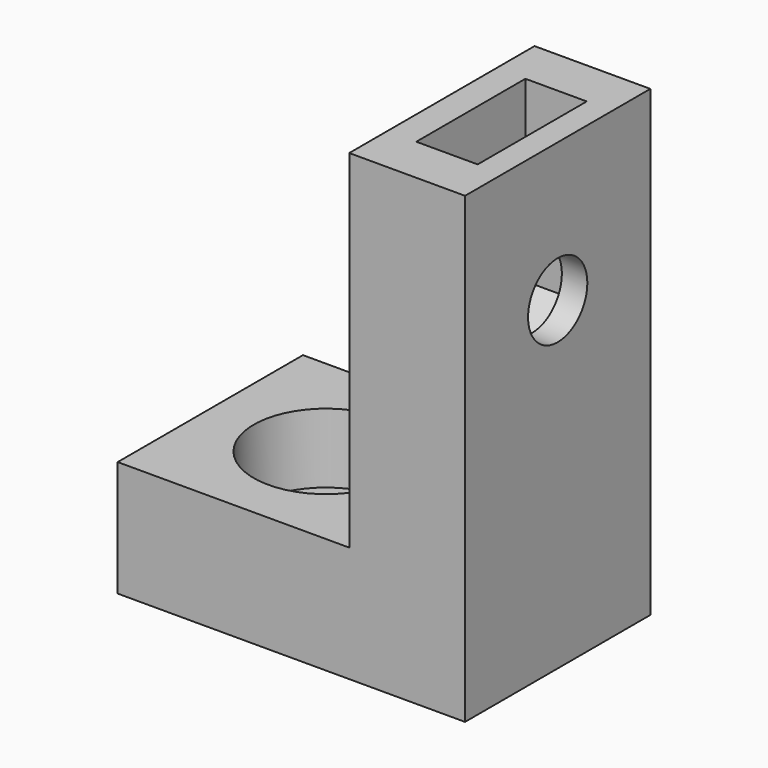
from build123d import *

# Parameters (mm, degrees)
PAD_DEPTH       = 10
SKETCH001_R     = 1.6
POCKET_DEPTH    = 20.001
SKETCH002_R     = 1.6
POCKET001_DEPTH = 15.001
POCKET002_DEPTH = 2.65
SKETCH004_R     = 3.125
POCKET003_DEPTH = 3


with BuildPart() as part:
    # Sketch → Pad (new body)
    with BuildSketch(Plane.XZ):
        Polygon((15, 20), (10, 20), (10, 5), (0, 5), (0, 0), (15, 0), (15, 14), align=None)
    extrude(amount=PAD_DEPTH)

    # Sketch001 → Pocket (cut, through all)
    with BuildSketch(Plane.XY):
        with Locations((5, -5)):
            Circle(SKETCH001_R)
    extrude(amount=POCKET_DEPTH, mode=Mode.SUBTRACT)

    # Sketch002 → Pocket001 (cut, through all)
    with BuildSketch(Plane.YZ):
        with Locations((-5, 14)):
            Circle(SKETCH002_R)
    extrude(amount=POCKET001_DEPTH, mode=Mode.SUBTRACT)

    # Sketch003 → Pocket002 (cut)
    with BuildSketch(Plane.YZ.offset(11.25)):
        Polygon((-2.055514, 12.3), (-2.055514, 15.7), (-2.055514, 20.7), (-7.944486, 20.7), (-7.944486, 15.7), (-7.944486, 12.3), (-5, 10.6), align=None)
    extrude(amount=POCKET002_DEPTH, mode=Mode.SUBTRACT)

    # Sketch004 → Pocket003 (cut)
    with BuildSketch(Plane.XY.offset(5)):
        with Locations((5, -5)):
            Circle(SKETCH004_R)
    extrude(amount=-POCKET003_DEPTH, mode=Mode.SUBTRACT)


solid = part.part
